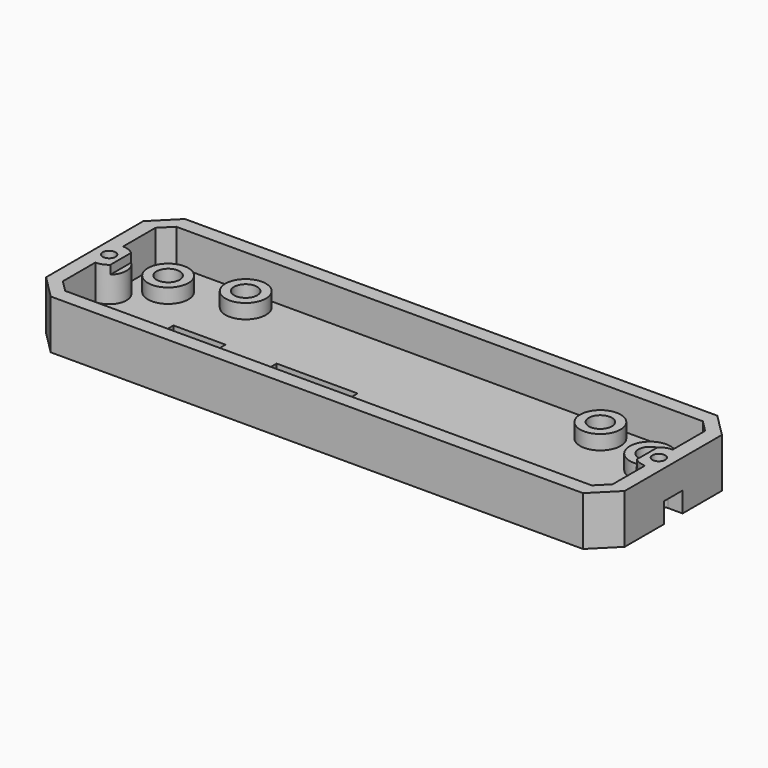
from build123d import *

# Parameters (mm, degrees)
BOX006_W           = 14
BOX006_H           = 8
BOX006_DEPTH       = 10
BOX005_W           = 9
BOX005_H           = 8
BOX005_DEPTH       = 10
BOX017_W           = 7
BOX017_H           = 4
BOX017_DEPTH       = 3.5
CYLINDER035_R      = 2
CYLINDER035_DEPTH  = 3.5
CYLINDER034_R      = 2
CYLINDER034_DEPTH  = 3.5
BOX018_W           = 7
BOX018_H           = 4
BOX018_DEPTH       = 3.5
CYLINDER039_R      = 1.1
CYLINDER039_DEPTH  = 8.5
CYLINDER038_R      = 1.1
CYLINDER038_DEPTH  = 8.5
CYLINDER_R         = 2
CYLINDER_DEPTH     = 10
CYLINDER001_R      = 2
CYLINDER001_DEPTH  = 10
CYLINDER003_R      = 2
CYLINDER003_DEPTH  = 10
CYLINDER002_R      = 2
CYLINDER002_DEPTH  = 10
CYLINDER014_R      = 3.5
CYLINDER014_DEPTH  = 5
CYLINDER013_R      = 3.5
CYLINDER013_DEPTH  = 5
CYLINDER012_R      = 3.5
CYLINDER012_DEPTH  = 5
CYLINDER015_R      = 3.5
CYLINDER015_DEPTH  = 5
BOX003_W           = 95
BOX003_H           = 24
BOX003_DEPTH       = 22.5
BOX004_W           = 100
BOX004_H           = 29
BOX004_DEPTH       = 8.5
BOX016_W           = 10
BOX016_H           = 10
BOX016_DEPTH       = 10
BOX014_W           = 10
BOX014_H           = 10
BOX014_DEPTH       = 10
CYLINDER036_R      = 3
CYLINDER036_DEPTH  = 8.5
BOX015_W           = 10
BOX015_H           = 10
BOX015_DEPTH       = 10
BOX013_W           = 10
BOX013_H           = 10
BOX013_DEPTH       = 10
CYLINDER037_R      = 3
CYLINDER037_DEPTH  = 8.5
CHAMFER_SIZE       = 2
CHAMFER011005_SIZE = 4


with BuildPart() as cube005:
    # Box006 → Box006 (new body)
    with BuildSketch(Plane(origin=(-17.154, -10.755, 0), x_dir=(1, 0, 0), z_dir=(0, 0, 1))):
        with Locations((7, 4)):
            Rectangle(BOX006_W, BOX006_H)
    extrude(amount=BOX006_DEPTH)


with BuildPart() as fusion011002:
    # Box005 → Box005 (new body)
    with BuildSketch(Plane(origin=(-34.974, -10.755, 0), x_dir=(1, 0, 0), z_dir=(0, 0, 1))):
        with Locations((4.5, 4)):
            Rectangle(BOX005_W, BOX005_H)
    extrude(amount=BOX005_DEPTH)

    # Fusion011002: union Cube005
    add(cube005.part)


with BuildPart() as fusion011002_1:
    # Fusion011002 placement: moved
    add(fusion011002.part.moved(Location((0, 1, 0))))


with BuildPart() as cube016:
    # Box017 → Box017 (new body)
    with BuildSketch(Plane(origin=(-54.5, -2, 0), x_dir=(1, 0, 0), z_dir=(0, 0, 1))):
        with Locations((3.5, 2)):
            Rectangle(BOX017_W, BOX017_H)
    extrude(amount=BOX017_DEPTH)


with BuildPart() as cylinder035:
    # Cylinder035 → Cylinder035 (new body)
    with BuildSketch(Plane(origin=(-47.5, 0, 0), x_dir=(1, 0, 0), z_dir=(0, 0, 1))):
        Circle(CYLINDER035_R)
    extrude(amount=CYLINDER035_DEPTH)


with BuildPart() as cylinder034:
    # Cylinder034 → Cylinder034 (new body)
    with BuildSketch(Plane(origin=(47.5, 0, 0), x_dir=(1, 0, 0), z_dir=(0, 0, 1))):
        Circle(CYLINDER034_R)
    extrude(amount=CYLINDER034_DEPTH)


with BuildPart() as fusion021:
    # Box018 → Box018 (new body)
    with BuildSketch(Plane(origin=(47.5, -2, 0), x_dir=(1, 0, 0), z_dir=(0, 0, 1))):
        with Locations((3.5, 2)):
            Rectangle(BOX018_W, BOX018_H)
    extrude(amount=BOX018_DEPTH)

    # Fusion021: union Cube016, Cylinder035, Cylinder034
    add(cube016.part)
    add(cylinder035.part)
    add(cylinder034.part)


with BuildPart() as cylinder039:
    # Cylinder039 → Cylinder039 (new body)
    with BuildSketch(Plane(origin=(47.5, 0, 0), x_dir=(1, 0, 0), z_dir=(0, 0, 1))):
        Circle(CYLINDER039_R)
    extrude(amount=CYLINDER039_DEPTH)


with BuildPart() as fusion025:
    # Cylinder038 → Cylinder038 (new body)
    with BuildSketch(Plane(origin=(-47.5, 0, 0), x_dir=(1, 0, 0), z_dir=(0, 0, 1))):
        Circle(CYLINDER038_R)
    extrude(amount=CYLINDER038_DEPTH)

    # Fusion025: union Cylinder039
    add(cylinder039.part)


with BuildPart() as cylinder:
    # Cylinder → Cylinder (new body)
    with BuildSketch(Plane(origin=(-25.65, 13.93, 0), x_dir=(1, 0, 0), z_dir=(0, 0, 1))):
        Circle(CYLINDER_R)
    extrude(amount=CYLINDER_DEPTH)


with BuildPart() as cylinder001:
    # Cylinder001 → Cylinder001 (new body)
    with BuildSketch(Plane(origin=(-36.65, 10.93, 0), x_dir=(1, 0, 0), z_dir=(0, 0, 1))):
        Circle(CYLINDER001_R)
    extrude(amount=CYLINDER001_DEPTH)


with BuildPart() as cylinder003:
    # Cylinder003 → Cylinder003 (new body)
    with BuildSketch(Plane(origin=(35.65, 13.93, 0), x_dir=(1, 0, 0), z_dir=(0, 0, 1))):
        Circle(CYLINDER003_R)
    extrude(amount=CYLINDER003_DEPTH)


with BuildPart() as fusion:
    # Cylinder002 → Cylinder002 (new body)
    with BuildSketch(Plane(origin=(46.65, 10.93, 0), x_dir=(1, 0, 0), z_dir=(0, 0, 1))):
        Circle(CYLINDER002_R)
    extrude(amount=CYLINDER002_DEPTH)

    # Fusion: union Cylinder, Cylinder001, Cylinder003
    add(cylinder.part)
    add(cylinder001.part)
    add(cylinder003.part)


with BuildPart() as fusion_1:
    # Fusion placement: moved
    add(fusion.part.moved(Location((-5, -5.5, 0))))


with BuildPart() as cylinder014:
    # Cylinder014 → Cylinder014 (new body)
    with BuildSketch(Plane(origin=(-36.65, 10.93, 0), x_dir=(1, 0, 0), z_dir=(0, 0, 1))):
        Circle(CYLINDER014_R)
    extrude(amount=CYLINDER014_DEPTH)


with BuildPart() as cylinder013:
    # Cylinder013 → Cylinder013 (new body)
    with BuildSketch(Plane(origin=(-25.65, 13.93, 0), x_dir=(1, 0, 0), z_dir=(0, 0, 1))):
        Circle(CYLINDER013_R)
    extrude(amount=CYLINDER013_DEPTH)


with BuildPart() as cylinder012:
    # Cylinder012 → Cylinder012 (new body)
    with BuildSketch(Plane(origin=(46.65, 10.93, 0), x_dir=(1, 0, 0), z_dir=(0, 0, 1))):
        Circle(CYLINDER012_R)
    extrude(amount=CYLINDER012_DEPTH)


with BuildPart() as fusion003:
    # Cylinder015 → Cylinder015 (new body)
    with BuildSketch(Plane(origin=(35.65, 13.93, 0), x_dir=(1, 0, 0), z_dir=(0, 0, 1))):
        Circle(CYLINDER015_R)
    extrude(amount=CYLINDER015_DEPTH)

    # Fusion003: union Cylinder014, Cylinder013, Cylinder012
    add(cylinder014.part)
    add(cylinder013.part)
    add(cylinder012.part)


with BuildPart() as fusion003_1:
    # Fusion003 placement: moved
    add(fusion003.part.moved(Location((-5, -5.5, 0))))


with BuildPart() as cube003:
    # Box003 → Box003 (new body)
    with BuildSketch(Plane(origin=(-47.5, -12, 2.5), x_dir=(1, 0, 0), z_dir=(0, 0, 1))):
        with Locations((47.5, 12)):
            Rectangle(BOX003_W, BOX003_H)
    extrude(amount=BOX003_DEPTH)


with BuildPart() as cut008:
    # Box004 → Box004 (new body)
    with BuildSketch(Plane(origin=(-50, -14.5, 0), x_dir=(1, 0, 0), z_dir=(0, 0, 1))):
        with Locations((50, 14.5)):
            Rectangle(BOX004_W, BOX004_H)
    extrude(amount=BOX004_DEPTH)

    # Cut: cut Cube003
    add(cube003.part, mode=Mode.SUBTRACT)

    # Fusion017: union Fusion003
    add(fusion003_1.part)

    # Cut008: cut Fusion
    add(fusion_1.part, mode=Mode.SUBTRACT)


with BuildPart() as cube015:
    # Box016 → Box016 (new body)
    with BuildSketch(Plane(origin=(-45.5, -3.5, 7), x_dir=(1, 0, 0), z_dir=(0, 0, 1))):
        with Locations((5, 5)):
            Rectangle(BOX016_W, BOX016_H)
    extrude(amount=BOX016_DEPTH)


with BuildPart() as cube013:
    # Box014 → Box014 (new body)
    with BuildSketch(Plane(origin=(-60, -4.5, 0), x_dir=(1, 0, 0), z_dir=(0, 0, 1))):
        with Locations((5, 5)):
            Rectangle(BOX014_W, BOX014_H)
    extrude(amount=BOX014_DEPTH)


with BuildPart() as cut015:
    # Cylinder036 → Cylinder036 (new body)
    with BuildSketch(Plane(origin=(-47.5, 0, 0), x_dir=(1, 0, 0), z_dir=(0, 0, 1))):
        Circle(CYLINDER036_R)
    extrude(amount=CYLINDER036_DEPTH)

    # Cut013: cut Cube013
    add(cube013.part, mode=Mode.SUBTRACT)

    # Cut015: cut Cube015
    add(cube015.part, mode=Mode.SUBTRACT)


with BuildPart() as cube014:
    # Box015 → Box015 (new body)
    with BuildSketch(Plane(origin=(35.5, -3.5, 7), x_dir=(1, 0, 0), z_dir=(0, 0, 1))):
        with Locations((5, 5)):
            Rectangle(BOX015_W, BOX015_H)
    extrude(amount=BOX015_DEPTH)


with BuildPart() as cube012:
    # Box013 → Box013 (new body)
    with BuildSketch(Plane(origin=(50, -4.5, 0), x_dir=(1, 0, 0), z_dir=(0, 0, 1))):
        with Locations((5, 5)):
            Rectangle(BOX013_W, BOX013_H)
    extrude(amount=BOX013_DEPTH)


with BuildPart() as cut025:
    # Cylinder037 → Cylinder037 (new body)
    with BuildSketch(Plane(origin=(47.5, 0, 0), x_dir=(1, 0, 0), z_dir=(0, 0, 1))):
        Circle(CYLINDER037_R)
    extrude(amount=CYLINDER037_DEPTH)

    # Cut014: cut Cube012
    add(cube012.part, mode=Mode.SUBTRACT)

    # Cut016: cut Cube014
    add(cube014.part, mode=Mode.SUBTRACT)

    # Fusion026: union Cut015
    add(cut015.part)

    # Fusion011003: union Cut008
    add(cut008.part)

    # Cut023: cut Fusion025
    add(fusion025.part, mode=Mode.SUBTRACT)

    # Cut024: cut Fusion021
    add(fusion021.part, mode=Mode.SUBTRACT)

    # Chamfer
    chamfer_edges = [cut025.edges().sort_by_distance(p)[0] for p in [
        (47.5, 12, 5.5),
        (-47.5, 12, 5.5),
        (-47.5, -12, 5.5),
        (47.5, -12, 5.5),
    ]]
    chamfer(chamfer_edges, length=CHAMFER_SIZE)

    # Chamfer011005
    chamfer011005_edges = [cut025.edges().sort_by_distance(p)[0] for p in [
        (50, 14.5, 4.25),
        (-50, 14.5, 4.25),
        (50, -14.5, 4.25),
        (-50, -14.5, 4.25),
    ]]
    chamfer(chamfer011005_edges, length=CHAMFER011005_SIZE)

    # Cut025: cut Fusion011002
    add(fusion011002_1.part, mode=Mode.SUBTRACT)


solid = cut025.part
